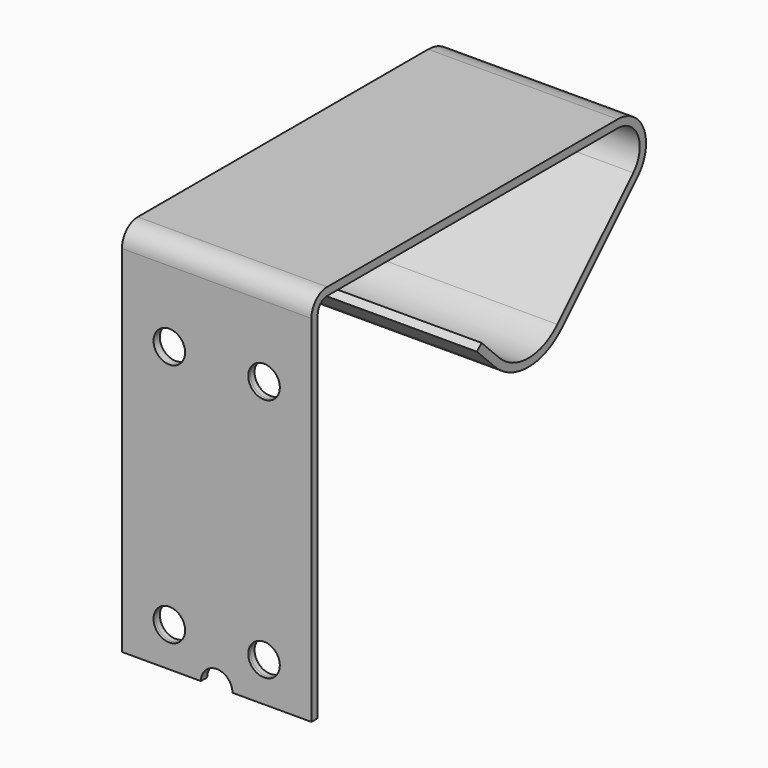
from build123d import *

# Parameters (mm, degrees)
SKETCH002_W       = 6
SKETCH002_H       = 0.25
SKETCH003_R       = 0.5
POCKET_DEPTH      = 5
POCKET_DEPTH_BACK = 5


with BuildPart() as part:
    # AdditivePipe: sweep along a path in Sketch
    with BuildLine(Plane.YZ) as additivepipe_path:
        Line((-1.944544, -0.53033), (-1.237437, -1.237437))
        ThreePointArc((-1.237437, -1.237437), (0, -1.75), (1.237437, -1.237437))
        Line((1.237437, -1.237437), (4.242641, 1.767767))
        ThreePointArc((4.242641, 1.767767), (4.459413, 2.857557), (3.535534, 3.474874))
        Line((3.535534, 3.474874), (-7.964466, 3.474874))
        ThreePointArc((-7.964466, 3.474874), (-8.318019, 3.328427), (-8.464466, 2.974874))
        Line((-8.464466, 2.974874), (-8.464466, -8.275126))
    # Sketch002 (on DatumPlane) → AdditivePipe (sweep)
    with BuildSketch(Plane.XY.offset(-8)):
        with Locations((0, -8.464466)):
            Rectangle(SKETCH002_W, SKETCH002_H)
    sweep(path=additivepipe_path.line)

    # Sketch003 (on DatumPlane) → Pocket (cut, two sides)
    with BuildSketch(Plane.XZ.offset(8.5)) as pocket_sk:
        with Locations((1.5, -7.025126)):
            Circle(SKETCH003_R)
        with Locations((1.5, 0.724874)):
            Circle(SKETCH003_R)
        with BuildLine():
            Line((0, -8.275126), (0, -7.775126))
            ThreePointArc((0.5, -8.275126), (0.353553, -7.921573), (0, -7.775126))
            Line((0, -8.275126), (0.5, -8.275126))
        make_face()
    pocket = extrude(amount=POCKET_DEPTH, mode=Mode.SUBTRACT) + extrude(pocket_sk.sketch, amount=-POCKET_DEPTH_BACK, mode=Mode.SUBTRACT)

    # Mirrored: Pocket across Sketch003 V_Axis
    add(pocket.mirror(Plane(origin=(0, -8.5, 0), x_dir=(0, -1, 0), z_dir=(1, 0, 0))), mode=Mode.SUBTRACT)


solid = part.part
